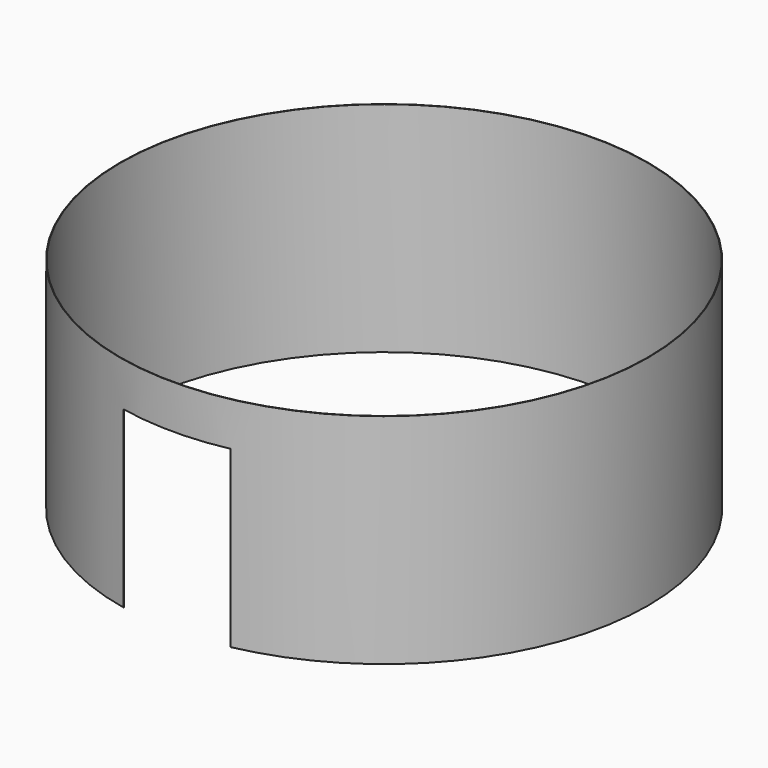
from build123d import *

# Parameters (mm, degrees)
F0_R     = 3025
F0_R_2   = 3020
F1_DEPTH = 2500
F2_W     = 1225.2871990204
F2_H     = 1999.9452829361
F3_DEPTH = 3026


with BuildPart() as f1:
    # F0 (on Top) → F1 (new body)
    with BuildSketch(Plane.XY):
        Circle(F0_R)
        Circle(F0_R_2, mode=Mode.SUBTRACT)
    extrude(amount=F1_DEPTH)

    # F2 (on Front) → F3 (cut, up to face)
    with BuildSketch(Plane.XZ):
        with Locations((0, 999.972641468)):
            Rectangle(F2_W, F2_H)
    extrude(amount=F3_DEPTH, mode=Mode.SUBTRACT)


solid = f1.part
